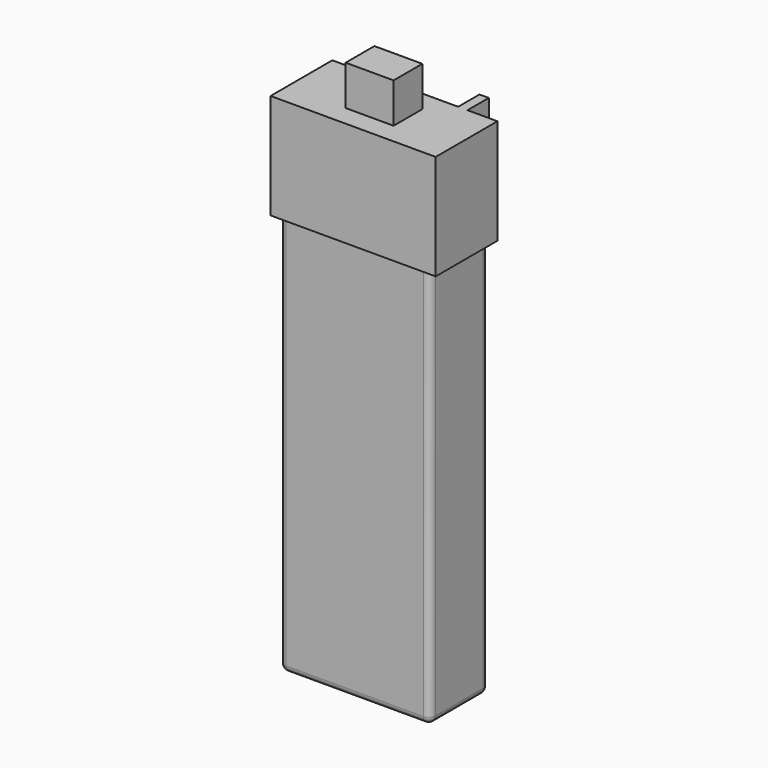
from build123d import *

# Parameters (mm, degrees)
F0_W     = 12.4
F0_H     = 5.8
F1_DEPTH = 7.9
F2_W     = 11.3
F2_H     = 5.5
F3_DEPTH = 30
F4_R     = 0.5
F5_W     = 3.6
F5_H     = 2.7
F6_DEPTH = 3
F7_W     = 0.7
F7_H     = 7.9
F8_DEPTH = 2


with BuildPart() as f1:
    # F0 (on Top) → F1 (new body)
    with BuildSketch(Plane.XY):
        Rectangle(F0_W, F0_H)
    extrude(amount=F1_DEPTH)

    # F2 (on face) → F3 (join)
    with BuildSketch(Plane(origin=(0, 0, 0), x_dir=(1, 0, 0), z_dir=(0, 0, -1))):
        Rectangle(F2_W, F2_H)
    extrude(amount=F3_DEPTH)

    # F4
    f4_edges = [f1.edges().sort_by_distance(p)[0] for p in [
        (-5.65, -2.75, -15),
        (5.65, -2.75, -15),
        (0, -2.75, -30),
        (5.65, 0, -30),
        (0, 2.75, -30),
        (-5.65, 0, -30),
        (5.65, 2.75, -15),
        (-5.65, 2.75, -15),
    ]]
    fillet(f4_edges, radius=F4_R)

    # F5 (on face) → F6 (join)
    with BuildSketch(Plane.XY.offset(7.9)):
        Rectangle(F5_W, F5_H)
    extrude(amount=F6_DEPTH)

    # F7 (on face) → F8 (join)
    with BuildSketch(Plane(origin=(0, 2.9, 0), x_dir=(-1, 0, 0), z_dir=(0, 1, 0))):
        with Locations((3.6, 3.95)):
            Rectangle(F7_W, F7_H)
        with Locations((-3.6, 3.95)):
            Rectangle(F7_W, F7_H)
    extrude(amount=F8_DEPTH)


solid = f1.part
